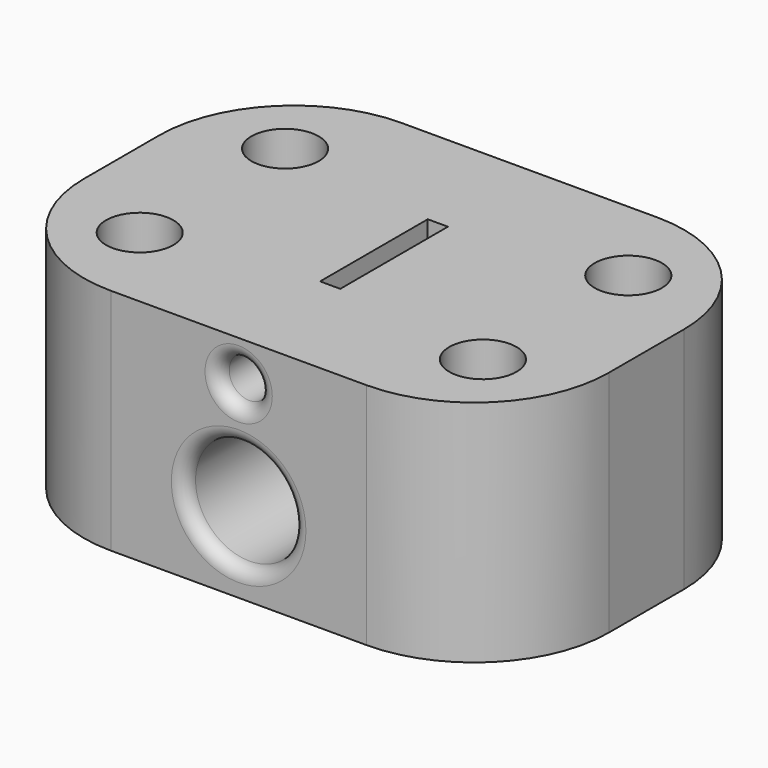
from build123d import *

# Parameters (mm, degrees)
F0_W      = 39
F0_H      = 27
F1_DEPTH  = 17
F2_R      = 10
F3_R      = 2.5
F4_DEPTH  = 17.001
F5_R      = 1.5
F6_DEPTH  = 27.001
F7_W      = 1.5
F7_H      = 10
F8_DEPTH  = 1.7019618943
F9_R      = 4
F10_DEPTH = 27.001
F11_R     = 1
F12_W     = 1.5
F12_H     = 10
F13_DEPTH = 2.0719415886


with BuildPart() as f1:
    # F0 (on Top) → F1 (new body)
    with BuildSketch(Plane.XY):
        Rectangle(F0_W, F0_H)
    extrude(amount=F1_DEPTH)

    # F2
    f2_edges = [f1.edges().sort_by_distance(p)[0] for p in [
        (19.5, 13.5, 8.5),
        (-19.5, 13.5, 8.5),
        (-19.5, -13.5, 8.5),
        (19.5, -13.5, 8.5),
    ]]
    fillet(f2_edges, radius=F2_R)

    # F3 (on face) → F4 (cut, through all)
    with BuildSketch(Plane.XY.offset(17)):
        with Locations((-12.75, -6.75)):
            Circle(F3_R)
        with Locations((12.75, 6.75)):
            Circle(F3_R)
        with Locations((12.75, -6.75)):
            Circle(F3_R)
        with Locations((-12.75, 6.75)):
            Circle(F3_R)
    extrude(amount=-F4_DEPTH, mode=Mode.SUBTRACT)

    # F5 (on face) → F6 (cut, through all)
    with BuildSketch(Plane.XZ.offset(13.5)):
        with Locations((0, 14)):
            Circle(F5_R)
    extrude(amount=-F6_DEPTH, mode=Mode.SUBTRACT)

    # F7 (on face) → F8 (cut, through all)
    with BuildSketch(Plane.XY.offset(17)):
        Rectangle(F7_W, F7_H)
    extrude(amount=-F8_DEPTH, mode=Mode.SUBTRACT)

    # F9 (on face) → F10 (cut, through all)
    with BuildSketch(Plane.XZ.offset(13.5)):
        with Locations((0, 6)):
            Circle(F9_R)
    extrude(amount=-F10_DEPTH, mode=Mode.SUBTRACT)

    # F11
    f11_edges = [f1.edges().sort_by_distance(p)[0] for p in [
        (-1.5, -13.5, 14),
        (-1.5, 13.5, 14),
        (-4, -13.5, 6),
        (-4, 13.5, 6),
    ]]
    fillet(f11_edges, radius=F11_R)

    # F12 (on face) → F13 (cut, through all)
    with BuildSketch(Plane(origin=(0, 0, 0), x_dir=(1, 0, 0), z_dir=(0, 0, -1))):
        Rectangle(F12_W, F12_H)
    extrude(amount=-F13_DEPTH, mode=Mode.SUBTRACT)


solid = f1.part
